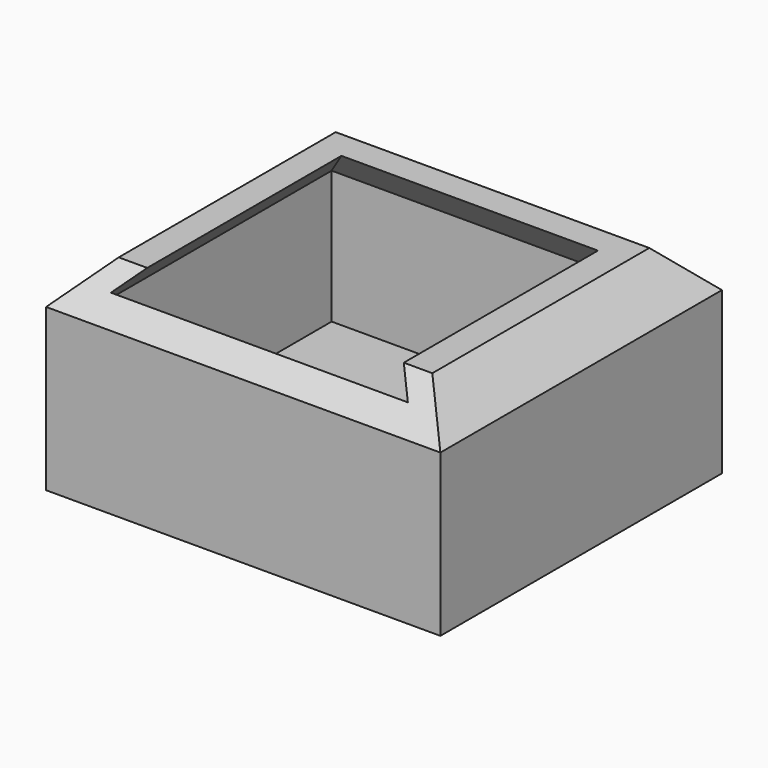
from build123d import *

# Parameters (mm, degrees)
F0_W     = 48.8697811961
F0_H     = 43.6150431633
F1_DEPTH = 25
F2_SIZE  = 5
F3_T     = -2.5


with BuildPart() as f1:
    # F0 (on Top) → F1 (new body)
    with BuildSketch(Plane.XY):
        with Locations((-111.1685223877, 3.0619557947)):
            Rectangle(F0_W, F0_H)
    extrude(amount=F1_DEPTH)

    # F2
    f2_edges = [f1.edges().sort_by_distance(p)[0] for p in [
        (-111.168522, 24.869477, 25),
        (-135.603413, 3.061956, 25),
        (-111.168522, -18.745566, 25),
        (-86.733632, 3.061956, 25),
    ]]
    chamfer(f2_edges, length=F2_SIZE)

    # F3
    f3_openings = [f1.faces().sort_by_distance(p)[0] for p in [
        (-111.168522, -16.340544, 22.405022),
        (-111.168522, 3.061956, 25),
    ]]
    offset(amount=F3_T, openings=f3_openings)


solid = f1.part
